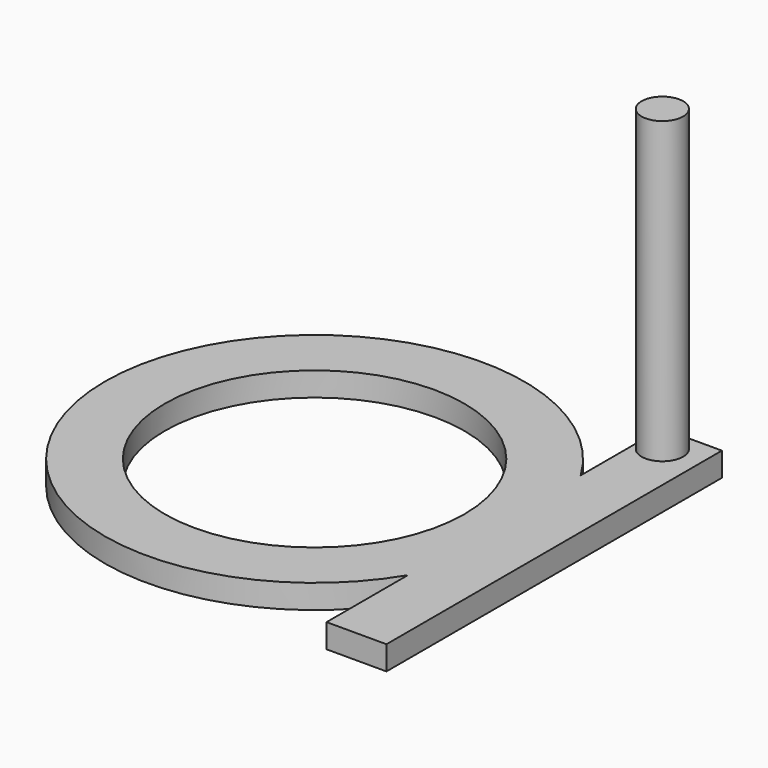
from build123d import *

# Parameters (mm, degrees)
F0_R     = 12.5
F1_DEPTH = 2
F2_R     = 1.7334803781
F3_DEPTH = 25


with BuildPart() as f1:
    # F0 (on Top) → F1 (new body)
    with BuildSketch(Plane.XY):
        with BuildLine():
            Line((14.9999987334, -9.0138802964), (14.9999987334, 9.0138802964))
            ThreePointArc((14.9999987334, 9.0138802964), (-17.5, 0), (14.9999987334, -9.0138802964))
        make_face()
        Circle(F0_R, mode=Mode.SUBTRACT)
        with BuildLine():
            ThreePointArc((14.9999987334, -9.0138802964), (16.8634216254, -4.6770729183), (17.5, 0))
            ThreePointArc((17.5, 0), (16.8634216254, 4.6770729183), (14.9999987334, 9.0138802964))
            Line((14.9999987334, 9.0138802964), (14.9999987334, -9.0138802964))
        make_face()
        with BuildLine():
            ThreePointArc((14.9999987334, 9.0138802964), (16.8634216254, 4.6770729183), (17.5, 0))
            ThreePointArc((17.5, 0), (16.8634216254, -4.6770729183), (14.9999987334, -9.0138802964))
            Line((14.9999987334, -9.0138802964), (14.9999987334, -17.5000000745))
            Line((14.9999987334, -17.5000000745), (19.9999987334, -17.5000000745))
            Line((19.9999987334, -17.5000000745), (19.9999987334, 17.4999999255))
            Line((19.9999987334, 17.4999999255), (14.9999987334, 17.4999999255))
            Line((14.9999987334, 17.4999999255), (14.9999987334, 9.0138802964))
        make_face()
    extrude(amount=F1_DEPTH)

    # F2 (on face) → F3 (join)
    with BuildSketch(Plane.XY.offset(2)):
        with Locations((16.8318804353, 15.2465272695)):
            Circle(F2_R)
    extrude(amount=F3_DEPTH)


solid = f1.part
